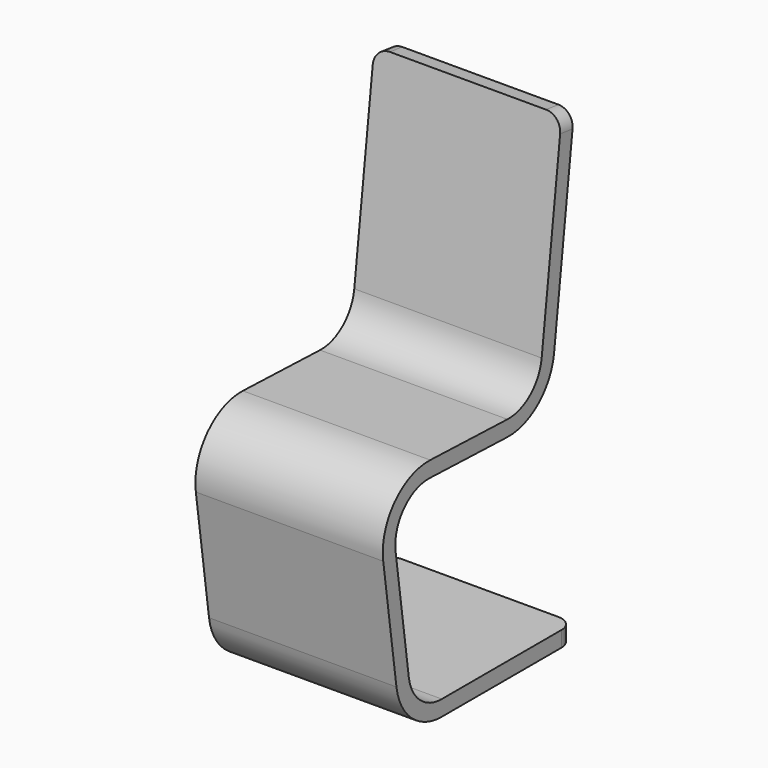
from build123d import *

# Parameters (mm, degrees)
F1_DEPTH = 3.6
F2_R     = 0.8
F3_R     = 1.1
F4_R     = 0.3


with BuildPart() as f1:
    # F0 (on Right) → F1 (new body)
    with BuildSketch(Plane.YZ):
        Polygon((-2.066098, 0), (2.066098, 0), (2.066098, 0.3), (-1.805312, 0.3), (-2.351694, 4.187705), (1.463354, 4.054481), (2.066098, 8.963439), (1.768335, 9), (1.199092, 4.363892), (-2.698532, 4.5), align=None)
    extrude(amount=F1_DEPTH)

    # F2
    f2_edges = [f1.edges().sort_by_distance(p)[0] for p in [
        (1.8, -2.351694, 4.187705),
        (1.8, -1.805312, 0.3),
        (1.8, 1.199092, 4.363892),
    ]]
    fillet(f2_edges, radius=F2_R)

    # F3
    f3_edges = [f1.edges().sort_by_distance(p)[0] for p in [
        (1.8, -2.698532, 4.5),
        (1.8, 1.463354, 4.054481),
        (1.8, -2.066098, 0),
    ]]
    fillet(f3_edges, radius=F3_R)

    # F4
    f4_edges = [f1.edges().sort_by_distance(p)[0] for p in [
        (3.6, 1.917216, 8.98172),
        (0, 1.917216, 8.98172),
        (3.6, 2.066098, 0.15),
        (0, 2.066098, 0.15),
    ]]
    fillet(f4_edges, radius=F4_R)


solid = f1.part
